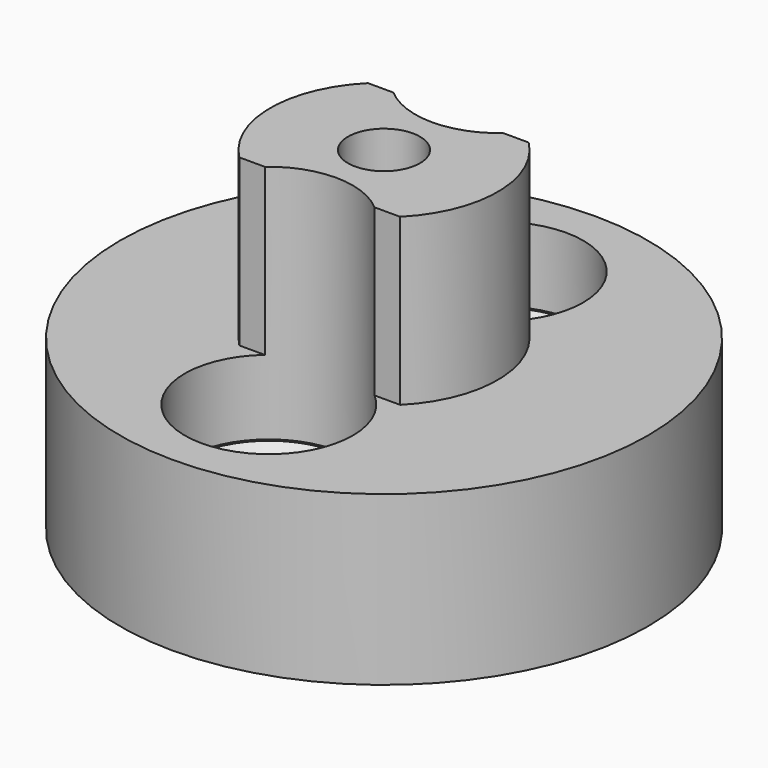
from build123d import *

# Parameters (mm, degrees)
SKETCH_R        = 11
SKETCH_R_2      = 1.7
PAD_DEPTH       = 7
PAD001_DEPTH    = 6.9
SKETCH006_R     = 3.5
POCKET003_DEPTH = 10
SKETCH007_R     = 2.2
POCKET_DEPTH    = 6
SKETCH003_R     = 1.5
POCKET004_DEPTH = 7.3
CHAMFER_SIZE    = 1.7
CHAMFER001_SIZE = 1.7


with BuildPart() as part:
    # Sketch → Pad (new body)
    with BuildSketch(Plane.XY):
        Circle(SKETCH_R)
        with Locations((0, 6)):
            Circle(SKETCH_R_2, mode=Mode.SUBTRACT)
        with Locations((0, -6)):
            Circle(SKETCH_R_2, mode=Mode.SUBTRACT)
    extrude(amount=PAD_DEPTH)

    # Sketch004 → Pad001 (new body)
    with BuildSketch(Plane.XY.offset(7)):
        with BuildLine():
            Line((-3.35, 3.35), (3.35, 3.35))
            ThreePointArc((3.35, -3.35), (4.737615, 0), (3.35, 3.35))
            Line((3.35, -3.35), (-3.35, -3.35))
            ThreePointArc((-3.35, 3.35), (-4.737615, 0), (-3.35, -3.35))
        make_face()
    extrude(amount=PAD001_DEPTH)

    # Sketch006 → Pocket003 (cut)
    with BuildSketch(Plane.XY.offset(13.9)):
        with Locations((0, 6)):
            Circle(SKETCH006_R)
        with Locations((0, -6)):
            Circle(SKETCH006_R)
    extrude(amount=-POCKET003_DEPTH, mode=Mode.SUBTRACT)

    # Sketch007 → Pocket (cut)
    with BuildSketch(Plane(origin=(0, 0, 0), x_dir=(1, 0, 0), z_dir=(0, 0, -1))):
        Circle(SKETCH007_R)
    extrude(amount=-POCKET_DEPTH, mode=Mode.SUBTRACT)

    # Sketch003 → Pocket004 (cut)
    with BuildSketch(Plane.XY.offset(13.9)):
        Circle(SKETCH003_R)
    extrude(amount=-POCKET004_DEPTH, mode=Mode.SUBTRACT)

    # Chamfer
    chamfer_edges = [part.edges().sort_by_distance(p)[0] for p in [
        (-1.7, 6, 3.9),
    ]]
    chamfer(chamfer_edges, length=CHAMFER_SIZE)

    # Chamfer001
    chamfer001_edges = [part.edges().sort_by_distance(p)[0] for p in [
        (-1.7, -6, 3.9),
    ]]
    chamfer(chamfer001_edges, length=CHAMFER001_SIZE)


solid = part.part
